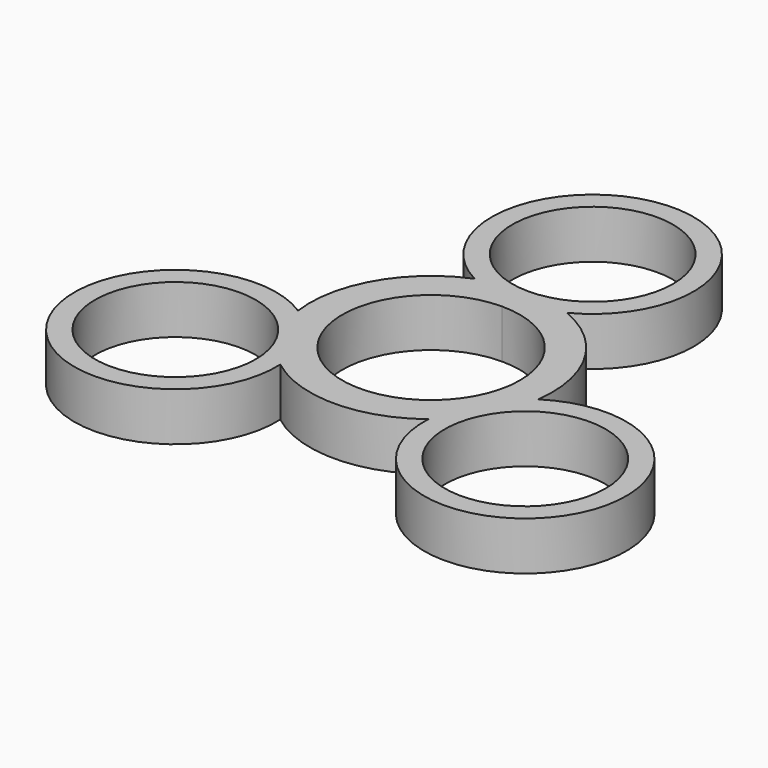
from build123d import *

# Parameters (mm, degrees)
F0_R     = 9.95
F1_DEPTH = 6


with BuildPart() as f1:
    # F0 (on Top) → F1 (new body)
    with BuildSketch(Plane.XY):
        with BuildLine():
            ThreePointArc((0, 11), (-7.778175, -7.778175), (11, 0))
            ThreePointArc((11, 0), (7.778175, 7.778175), (0, 11))
        make_face()
        with BuildLine():
            ThreePointArc((9.166349, -11.873417), (32.475953, -18.75), (14.865856, -2.001583))
            ThreePointArc((14.865856, -2.001583), (12.990381, 7.5), (5.699507, 13.875))
            ThreePointArc((5.699507, 13.875), (0, 37.5), (-5.699507, 13.875))
            ThreePointArc((-5.699507, 13.875), (-12.990381, 7.5), (-14.865856, -2.001583))
            ThreePointArc((-14.865856, -2.001583), (-32.475953, -18.75), (-9.166349, -11.873417))
            ThreePointArc((-9.166349, -11.873417), (0, -15), (9.166349, -11.873417))
        make_face()
        with Locations((-21.650635, -12.5)):
            Circle(F0_R, mode=Mode.SUBTRACT)
        with Locations((21.650635, -12.5)):
            Circle(F0_R, mode=Mode.SUBTRACT)
        with BuildLine():
            ThreePointArc((0, 11), (7.778175, 7.778175), (11, 0))
            ThreePointArc((11, 0), (-7.778175, -7.778175), (0, 11))
        make_face(mode=Mode.SUBTRACT)
        with BuildLine():
            ThreePointArc((9.95, 25), (7.035712, 17.964288), (0, 15.05))
            ThreePointArc((0, 15.05), (-7.035712, 32.035712), (9.95, 25))
        make_face(mode=Mode.SUBTRACT)
    extrude(amount=F1_DEPTH)


solid = f1.part
